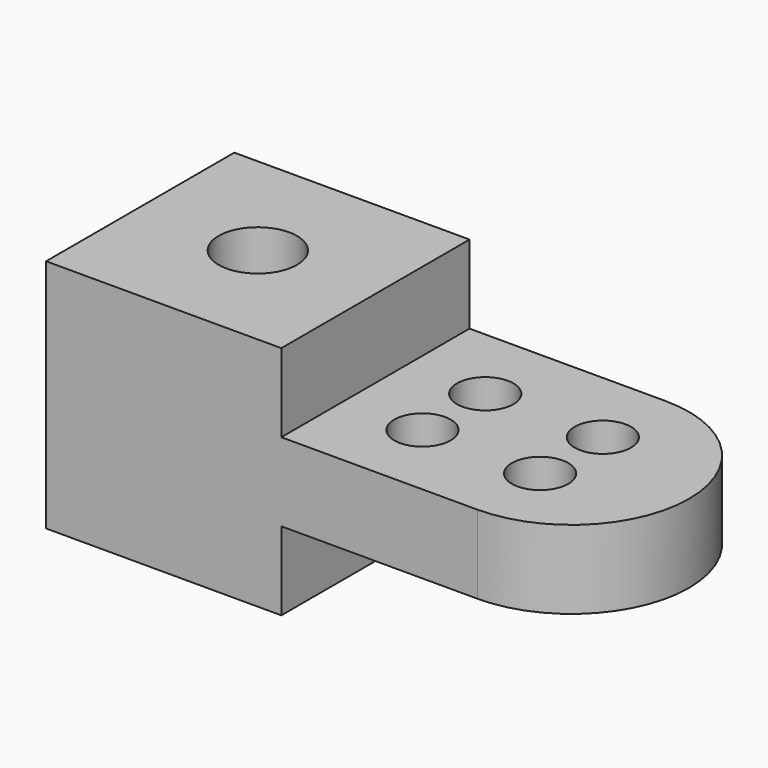
from build123d import *

# Parameters (mm, degrees)
F0_W     = 38.1
F0_H     = 38.1
F1_DEPTH = 19.05
F0_R     = 4.569596
F2_DEPTH = 6.35
F3_R     = 6.35
F4_DEPTH = 38.101


with BuildPart() as f1:
    # F0 (on Top) → F1 (new body, symmetric)
    with BuildSketch(Plane.XY):
        Rectangle(F0_W, F0_H)
    extrude(amount=F1_DEPTH, both=True)

    # F0 (on Top) → F2 (join, symmetric)
    with BuildSketch(Plane.XY):
        with BuildLine():
            Line((19.05, 19.05), (19.05, -19.05))
            Line((19.05, -19.05), (50.8, -19.05))
            ThreePointArc((50.8, -19.05), (69.85, 0), (50.8, 19.05))
            Line((50.8, 19.05), (19.05, 19.05))
        make_face()
        with Locations((31.75, -6.35)):
            Circle(F0_R, mode=Mode.SUBTRACT)
        with Locations((50.8, -6.35)):
            Circle(F0_R, mode=Mode.SUBTRACT)
        with Locations((31.75, 6.35)):
            Circle(F0_R, mode=Mode.SUBTRACT)
        with Locations((50.8, 6.35)):
            Circle(F0_R, mode=Mode.SUBTRACT)
    extrude(amount=F2_DEPTH, both=True)

    # F3 (on face) → F4 (cut, through all)
    with BuildSketch(Plane.XY.offset(19.05)):
        Circle(F3_R)
    extrude(amount=-F4_DEPTH, mode=Mode.SUBTRACT)


solid = f1.part
